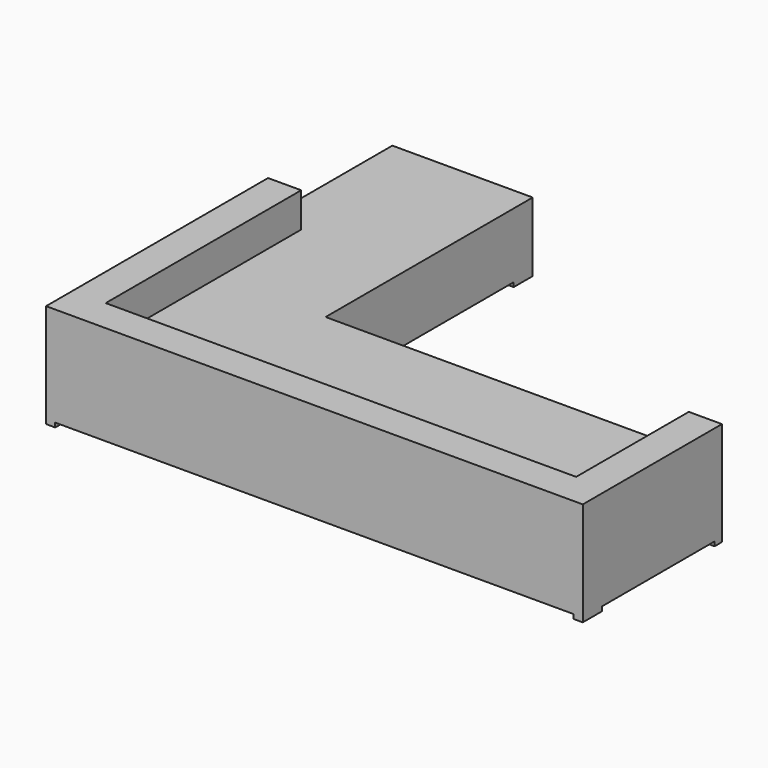
from build123d import *

# Parameters (mm, degrees)
F1_DEPTH = 400
F3_DEPTH = 25
F5_DEPTH = 200


with BuildPart() as f1:
    # F0 (on Top) → F1 (new body)
    with BuildSketch(Plane.XY):
        Polygon((0, 2500), (0, 0), (3100, 0), (3100, 1004.663332), (810.769223, 1004.663332), (810.769223, 2500), align=None)
    extrude(amount=F1_DEPTH)

    # F2 (on face) → F3 (cut)
    with BuildSketch(Plane(origin=(0, 0, 0), x_dir=(1, 0, 0), z_dir=(0, 0, -1))):
        Polygon((3047.066211, 0), (52.933789, 0), (52.933789, -137.639437), (0, -137.639437), (0, -2362.360563), (52.933789, -2362.360563), (52.933789, -2500), (757.835435, -2500), (757.835435, -2362.360563), (810.769223, -2362.360563), (810.769223, -1004.663332), (810.769223, -951.729543), (948.40866, -951.729543), (948.40866, -1004.663332), (2962.360563, -1004.663332), (2962.360563, -951.729543), (3100, -951.729543), (3100, -137.639437), (3047.066211, -137.639437), align=None)
    extrude(amount=-F3_DEPTH, mode=Mode.SUBTRACT)

    # F4 (on face) → F5 (join)
    with BuildSketch(Plane.XY.offset(400)):
        Polygon((0, 1602.663875), (0, 0), (3100, 0), (3100, 1004.663332), (2908.657169, 1004.663332), (2908.657169, 191.342831), (191.342831, 191.342831), (191.342831, 1602.663875), align=None)
    extrude(amount=F5_DEPTH)


solid = f1.part
